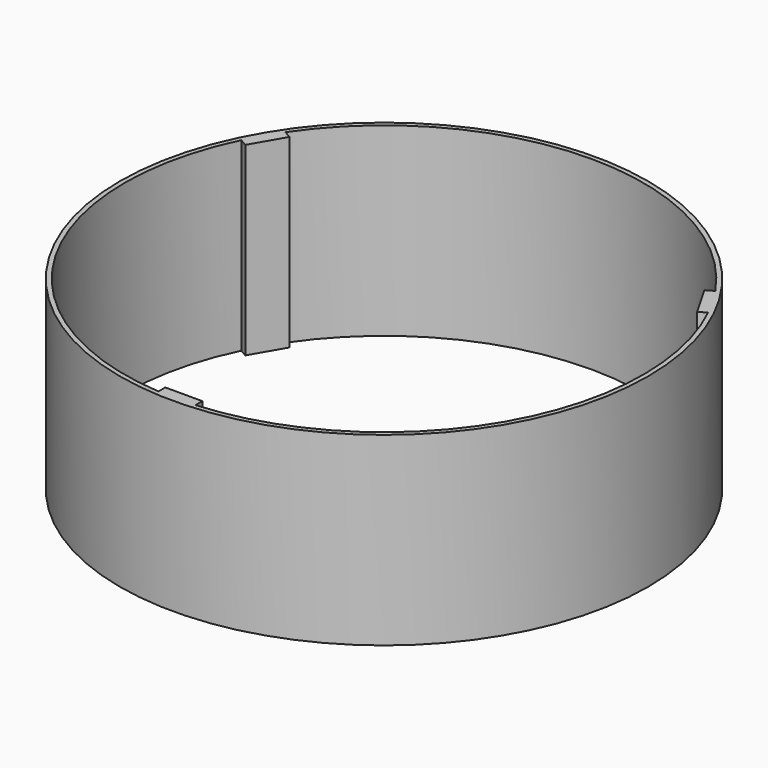
from build123d import *

# Parameters (mm, degrees)
F0_R     = 90.4875
F1_DEPTH = 63.5


with BuildPart() as f1:
    # F0 (on Top) → F1 (new body)
    with BuildSketch(Plane.XY):
        Circle(F0_R)
        with BuildLine():
            ThreePointArc((-6.35, -88.672924), (-76.989658, -44.45), (-79.968005, 38.837201))
            Line((-79.968005, 38.837201), (-77.415028, 37.363239))
            Line((-77.415028, 37.363239), (-74.240028, 42.8625))
            Line((-74.240028, 42.8625), (-71.065028, 48.361761))
            Line((-71.065028, 48.361761), (-73.618005, 49.835723))
            ThreePointArc((-73.618005, 49.835723), (0, 88.9), (73.618005, 49.835723))
            Line((73.618005, 49.835723), (71.065028, 48.361761))
            Line((71.065028, 48.361761), (74.240028, 42.8625))
            Line((74.240028, 42.8625), (77.415028, 37.363239))
            Line((77.415028, 37.363239), (79.968005, 38.837201))
            ThreePointArc((79.968005, 38.837201), (76.989658, -44.45), (6.35, -88.672924))
            Line((6.35, -88.672924), (6.35, -85.725))
            Line((6.35, -85.725), (0, -85.725))
            Line((0, -85.725), (-6.35, -85.725))
            Line((-6.35, -85.725), (-6.35, -88.672924))
        make_face(mode=Mode.SUBTRACT)
    extrude(amount=F1_DEPTH)


solid = f1.part
